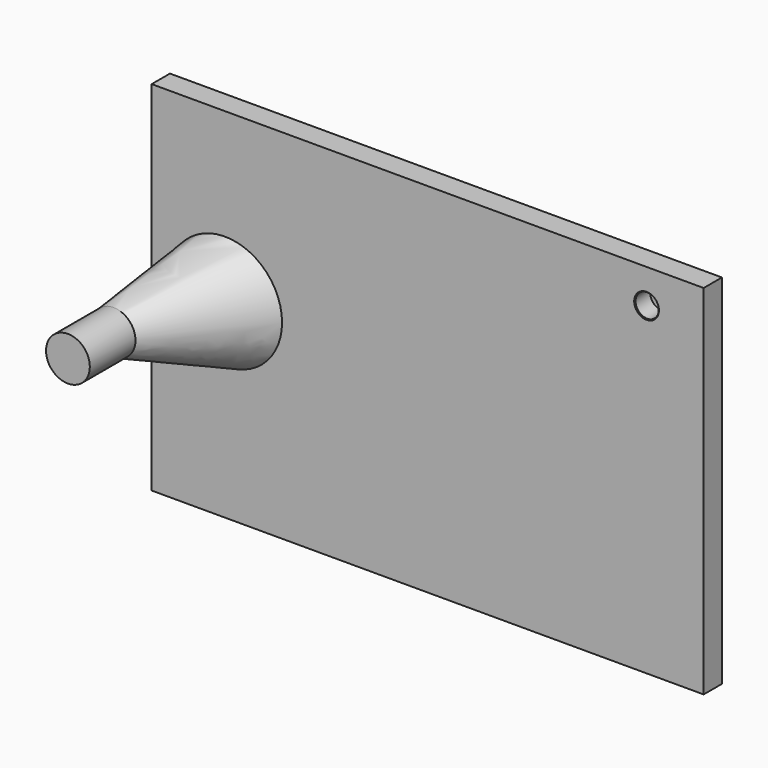
from build123d import *

# Parameters (mm, degrees)
SKETCH002_W      = 145
SKETCH002_H      = 94
PAD004_DEPTH     = 6
HOLE_D           = 6.1
HOLE_DEPTH       = 5
HOLE_CSINK_D     = 6.5
HOLE_CSINK_ANGLE = 90
SKETCH013_R      = 15
SKETCH014_R      = 5.75
SKETCH005_R      = 5.75


with BuildPart() as part:
    # Sketch002 → Pad004 (new body)
    with BuildSketch(Plane.XZ.offset(-12.5)):
        with Locations((-27.5, 12)):
            Rectangle(SKETCH002_W, SKETCH002_H)
    extrude(amount=-PAD004_DEPTH)

    # Hole
    with Locations(Plane.XZ.offset(-12.5)):
        with Locations((30, 50)):
            CounterSinkHole(HOLE_D / 2, HOLE_CSINK_D / 2, depth=HOLE_DEPTH, counter_sink_angle=HOLE_CSINK_ANGLE)

    # Sketch013 → AdditiveLoft001 section 0
    with BuildSketch(Plane.XZ.offset(-12.5)):
        with Locations((-80.75, 15)):
            Circle(SKETCH013_R)
    # Sketch014 → AdditiveLoft001 section 1
    with BuildSketch(Plane.XZ.offset(12.5)):
        with Locations((-90, 15)):
            Circle(SKETCH014_R)
    # Sketch005 → AdditiveLoft001 section 2
    with BuildSketch(Plane.XZ.offset(27.5)):
        with Locations((-90, 15)):
            Circle(SKETCH005_R)
    loft(ruled=True)


solid = part.part
